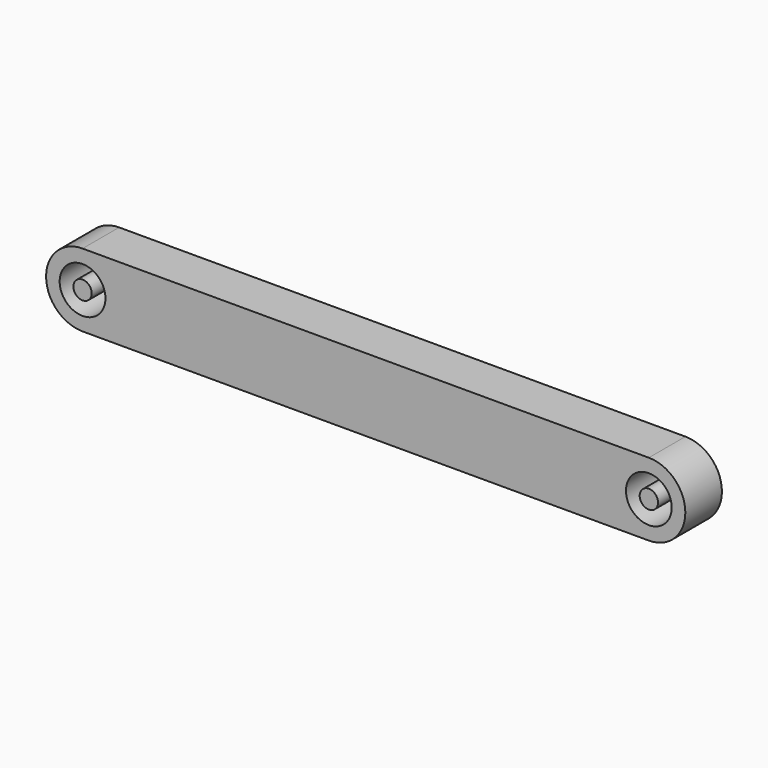
from build123d import *

# Parameters (mm, degrees)
F0_R     = 2.5019
F0_R_2   = 1.0033
F1_DEPTH = 5


with BuildPart() as f1:
    # F0 (on Front) → F1 (new body)
    with BuildSketch(Plane.XZ):
        with BuildLine():
            ThreePointArc((0, 3.9878), (-3.9878, 0), (0, -3.9878))
            Line((0, -3.9878), (61.8998, -3.9878))
            ThreePointArc((61.8998, -3.9878), (65.8876, 0), (61.8998, 3.9878))
            Line((61.8998, 3.9878), (0, 3.9878))
        make_face()
        Circle(F0_R, mode=Mode.SUBTRACT)
        with Locations((61.8998, 0)):
            Circle(F0_R, mode=Mode.SUBTRACT)
        Circle(F0_R_2)
        with Locations((61.8998, 0)):
            Circle(F0_R_2)
    extrude(amount=F1_DEPTH)


solid = f1.part
